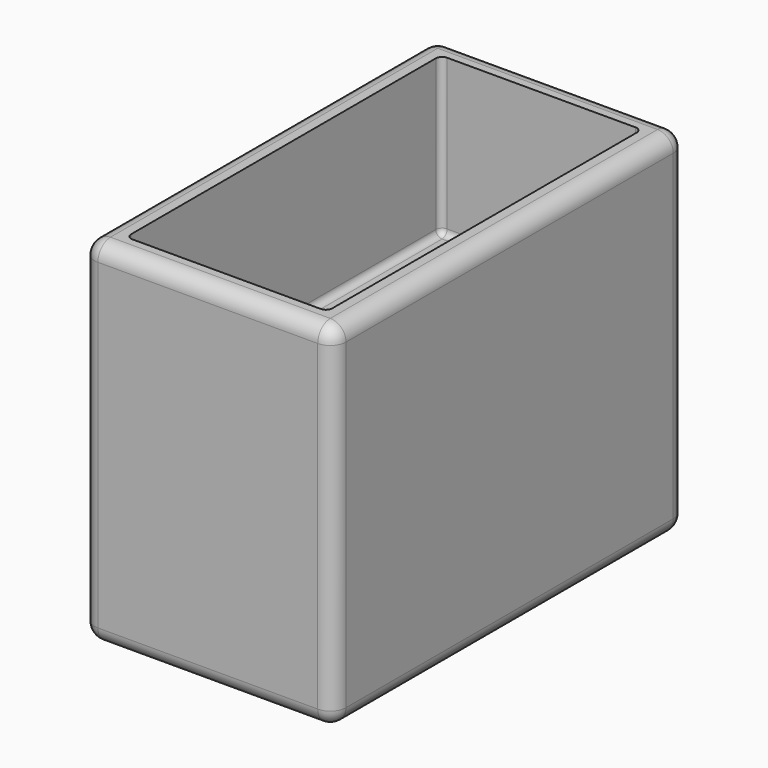
from build123d import *

# Parameters (mm, degrees)
F0_W     = 22.4
F0_H     = 40.2
F1_DEPTH = 25
F2_DEPTH = 20
F0_W_2   = 32
F0_H_2   = 56.1
F3_DEPTH = 45
F4_DEPTH = 20
F5_R     = 2
F6_R     = 0.8
F7_R     = 1.2


with BuildPart() as f1:
    # F0 (on Top) → F1 (new body)
    with BuildSketch(Plane.XY):
        Polygon((-11.2, -25.05), (-11.2, 15.15), (11.2, 15.15), (11.2, -25.05), (12.8, -25.05), (12.8, 25.05), (-12.8, 25.05), (-12.8, -25.05), align=None)
        with Locations((0, -4.95)):
            Rectangle(F0_W, F0_H)
    extrude(amount=F1_DEPTH)

    # F0 (on Top) → F2 (cut)
    with BuildSketch(Plane.XY):
        with Locations((0, -4.95)):
            Rectangle(F0_W, F0_H)
        Polygon((-11.2, -25.05), (-11.2, 15.15), (11.2, 15.15), (11.2, -25.05), (12.8, -25.05), (12.8, 25.05), (-12.8, 25.05), (-12.8, -25.05), align=None)
    extrude(amount=F2_DEPTH, mode=Mode.SUBTRACT)

    # F0 (on Top) → F3 (join)
    with BuildSketch(Plane.XY):
        Rectangle(F0_W_2, F0_H_2)
        Polygon((11.2, -25.05), (-11.2, -25.05), (-12.8, -25.05), (-12.8, 25.05), (12.8, 25.05), (12.8, -25.05), align=None, mode=Mode.SUBTRACT)
    extrude(amount=F3_DEPTH)

    # F0 (on Top) → F4 (join)
    with BuildSketch(Plane.XY):
        Polygon((-11.2, -25.05), (-11.2, 15.15), (11.2, 15.15), (11.2, -25.05), (12.8, -25.05), (12.8, 25.05), (-12.8, 25.05), (-12.8, -25.05), align=None)
    extrude(amount=F4_DEPTH)

    # F5
    f5_edges = [f1.edges().sort_by_distance(p)[0] for p in [
        (16, -28.05, 22.5),
        (16, 28.05, 22.5),
        (16, 0, 0),
        (16, 0, 45),
        (-16, 28.05, 22.5),
        (-16, -28.05, 22.5),
        (-16, 0, 0),
        (-16, 0, 45),
        (0, 28.05, 0),
        (0, 28.05, 45),
        (0, -28.05, 0),
        (0, -28.05, 45),
    ]]
    fillet(f5_edges, radius=F5_R)

    # F6
    f6_edges = [f1.edges().sort_by_distance(p)[0] for p in [
        (12.8, 25.05, 35),
        (12.8, -25.05, 35),
        (-12.8, -25.05, 35),
        (-12.8, 25.05, 35),
        (12.8, 0, 25),
        (0, 25.05, 25),
        (-12.8, 0, 25),
        (0, -25.05, 25),
    ]]
    fillet(f6_edges, radius=F6_R)

    # F7
    f7_edges = [f1.edges().sort_by_distance(p)[0] for p in [
        (-11.2, -25.05, 10),
        (11.2, -25.05, 10),
        (11.2, 15.15, 10),
        (-11.2, 15.15, 10),
    ]]
    fillet(f7_edges, radius=F7_R)


solid = f1.part
